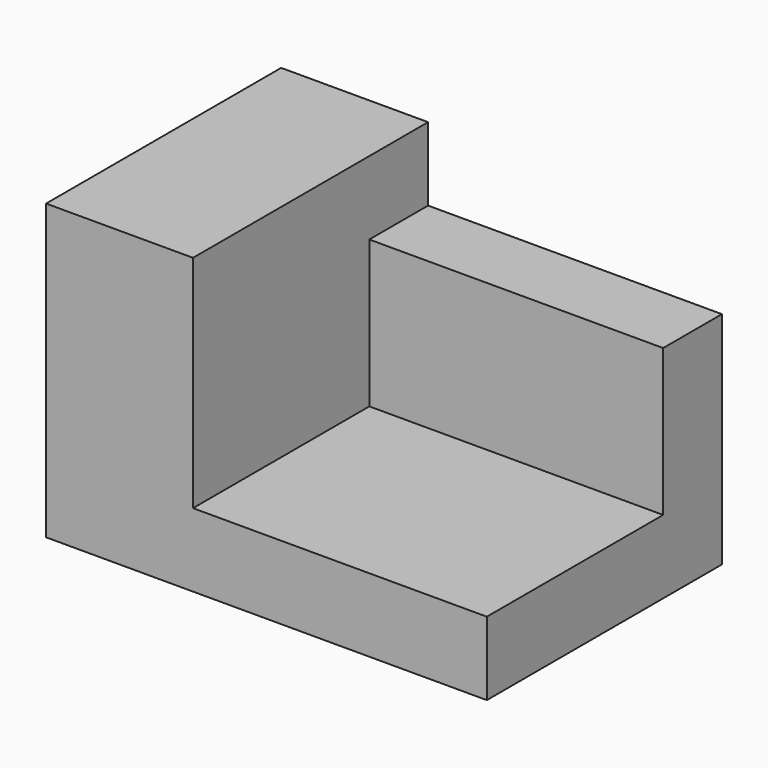
from build123d import *

# Parameters (mm, degrees)
F1_DEPTH = 38.1
F2_DEPTH = 12.7


with BuildPart() as f1:
    # F0 (on Right) → F1 (new body)
    with BuildSketch(Plane.YZ):
        Polygon((19.05, -19.05), (0, -19.05), (0, -25.4), (19.05, -25.4), (25.4, -25.4), (25.4, -19.05), (25.4, -6.35), (19.05, -6.35), align=None)
    extrude(amount=F1_DEPTH)

    # F0 (on Right) → F2 (join)
    with BuildSketch(Plane.YZ):
        Polygon((25.4, 0), (0, 0), (0, -19.05), (19.05, -19.05), (19.05, -6.35), (25.4, -6.35), align=None)
    extrude(amount=F2_DEPTH)


solid = f1.part
